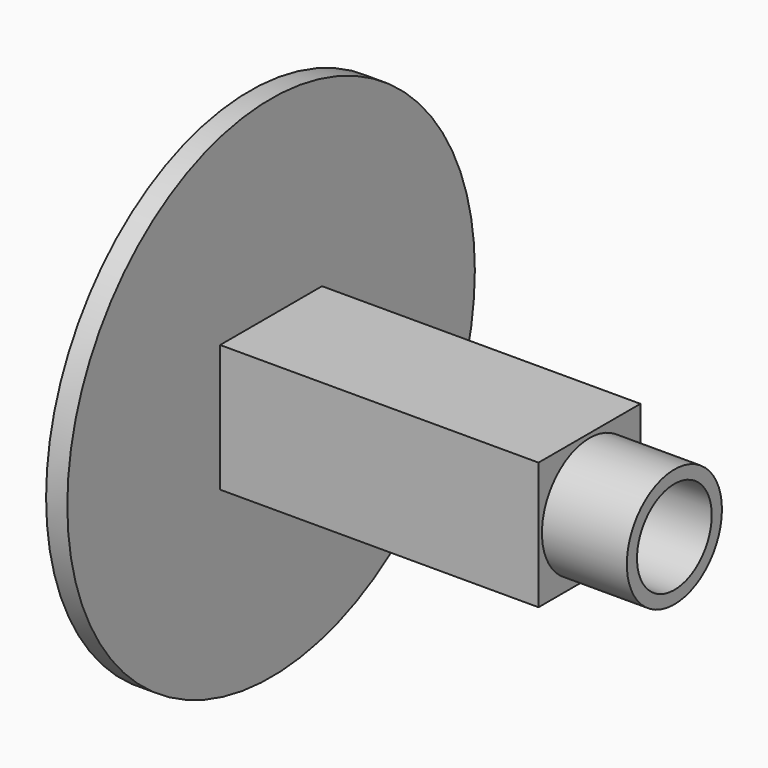
from build123d import *

# Parameters (mm, degrees)
F0_R     = 14
F0_R_2   = 11
F1_DEPTH = 100
F0_W     = 30
F0_H     = 30
F2_DEPTH = 80
F0_R_3   = 60
F3_DEPTH = 5


with BuildPart() as f1:
    # F0 (on Right) → F1 (new body)
    with BuildSketch(Plane.YZ):
        Circle(F0_R)
        Circle(F0_R_2, mode=Mode.SUBTRACT)
    extrude(amount=F1_DEPTH)

    # F0 (on Right) → F2 (join)
    with BuildSketch(Plane.YZ):
        Rectangle(F0_W, F0_H)
        Circle(F0_R, mode=Mode.SUBTRACT)
    extrude(amount=F2_DEPTH)

    # F0 (on Right) → F3 (join)
    with BuildSketch(Plane.YZ):
        Circle(F0_R_3)
        Rectangle(F0_W, F0_H, mode=Mode.SUBTRACT)
    extrude(amount=F3_DEPTH)


solid = f1.part
